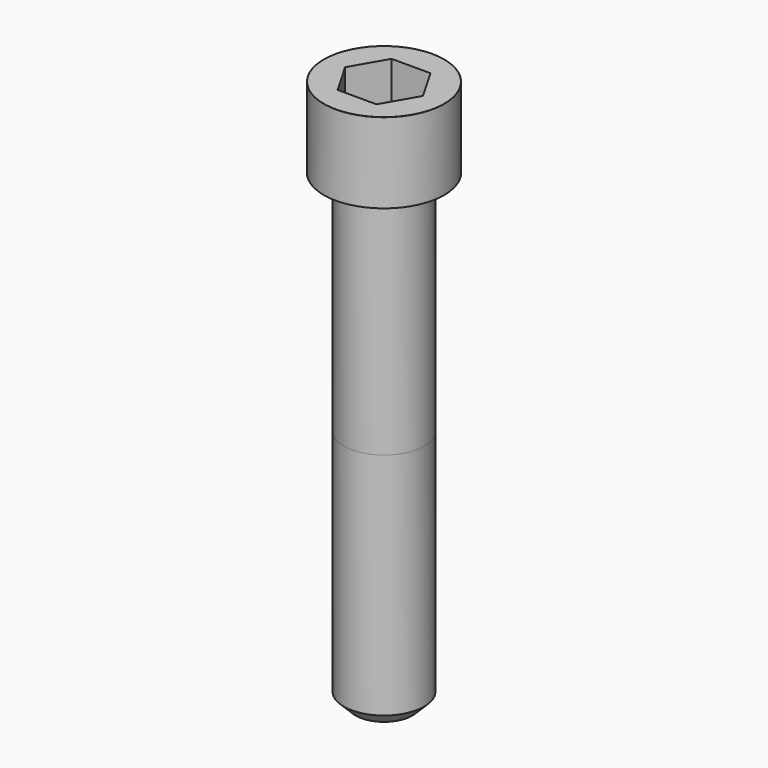
from build123d import *

# Parameters (mm, degrees)
POCKET_DEPTH = 10.07


with BuildPart() as part:
    # Sketch → Revolve (revolve)
    with BuildSketch(Plane.YZ):
        with BuildLine():
            Line((5.999, 0), (9, 0))
            Line((9, 0), (9, 11.97229))
            ThreePointArc((9, 11.97229), (8.991884, 11.991884), (8.97229, 12))
            Line((8.97229, 12), (0, 12))
            Line((0, -70), (0, 12))
            Line((4.25, -70), (0, -70))
            Line((6, -68.25), (4.25, -70))
            Line((6, -34), (6, -68.25))
            Line((5.999, 0), (6, -34))
        make_face()
    revolve(axis=Axis((0, 0, 0), (0, 0, 1)))

    # Sketch001 → Pocket (cut)
    with BuildSketch(Plane.XY.offset(12)):
        Polygon((5.813917, 0), (2.906959, 5.035), (-2.906959, 5.035), (-5.813917, 0), (-2.906959, -5.035), (2.906959, -5.035), align=None)
    extrude(amount=-POCKET_DEPTH, mode=Mode.SUBTRACT)


solid = part.part
